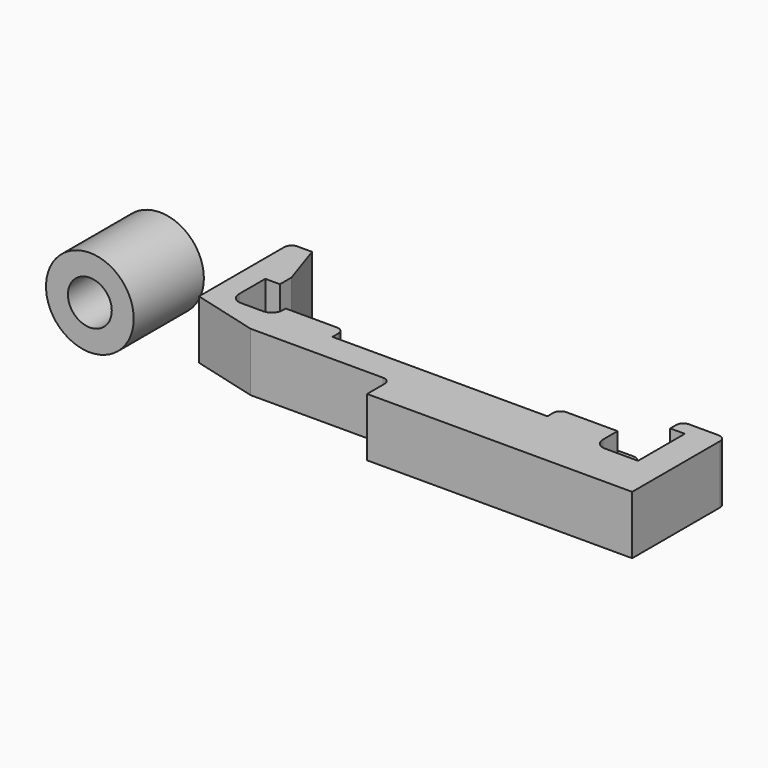
from build123d import *

# Parameters (mm, degrees)
SKETCH_R        = 3
SKETCH_R_2      = 1.5
PAD_DEPTH       = 6
PAD007_DEPTH    = 2
SKETCH009_W     = 14.7
SKETCH009_H     = 4
POCKET001_DEPTH = 1
SKETCH010_W     = 4
SKETCH010_H     = 1.5
PAD008_DEPTH    = 2
FILLET003_R     = 0.5


with BuildPart() as pcb_socket:
    # Sketch → Pad (new body)
    with BuildSketch(Plane.XZ):
        Circle(SKETCH_R)
        Circle(SKETCH_R_2, mode=Mode.SUBTRACT)
    extrude(amount=-PAD_DEPTH)


with BuildPart() as pcb_socket_1:
    # Body placement: moved
    add(pcb_socket.part.moved(Location((-11, 0, 0))))


with BuildPart() as pcb_clip:
    # Sketch008 → Pad007 (new body, symmetric)
    with BuildSketch(Plane.XY):
        with BuildLine():
            Line((-4.5, 1.205771), (-4.5, 9))
            Line((-3, 9), (-4.5, 9))
            Line((-2, 6), (-3, 9))
            Line((-2, 6), (-2, 5))
            Line((-2, 5), (-3, 5))
            Line((-3, 5), (-3, 2.75))
            ThreePointArc((-3, 2.75), (-2.78033, 2.21967), (-2.25, 2))
            Line((-2.25, 2), (-0.75, 2))
            ThreePointArc((-0.75, 2), (-0.21967, 2.21967), (0, 2.75))
            Line((0, 2.75), (0, 3))
            Line((22.7, 3), (0, 3))
            Line((22.7, 3), (22.7, 1.75))
            ThreePointArc((22.7, 1.75), (22.91967, 1.21967), (23.45, 1))
            Line((23.45, 1), (25.7, 1))
            Line((25.7, 5), (25.7, 1))
            Line((24.7, 5), (25.7, 5))
            Line((24.7, 6), (24.7, 5))
            Line((24.7, 6), (27.7, 6))
            Line((27.7, -2), (27.7, 6))
            Line((9.566667, -2), (27.7, -2))
            Line((9.566667, 0), (9.566667, -2))
            Line((9.566667, 0), (0, 0))
            Line((-4.5, 1.205771), (0, 0))
        make_face()
    extrude(amount=PAD007_DEPTH, both=True)

    # Sketch009 (on Face11 of Pad007) → Pocket001 (cut)
    with BuildSketch(Plane(origin=(0, 3, 0), x_dir=(-1, 0, 0), z_dir=(0, 1, 0))):
        with Locations((-11.35, 0)):
            Rectangle(SKETCH009_W, SKETCH009_H)
    extrude(amount=-POCKET001_DEPTH, mode=Mode.SUBTRACT)

    # Sketch010 (on DatumPlane) → Pad008 (join)
    with BuildSketch(Plane(origin=(0, 3, 0), x_dir=(-1, 0, 0), z_dir=(0, 1, 0))):
        with Locations((-20.7, -1.25)):
            Rectangle(SKETCH010_W, SKETCH010_H)
        with Locations((-2, -1.25)):
            Rectangle(SKETCH010_W, SKETCH010_H)
    extrude(amount=PAD008_DEPTH)

    # Fillet003
    fillet003_edges = [pcb_clip.edges().sort_by_distance(p)[0] for p in [
        (24.7, 6, 0),
        (4, 5, -1.25),
        (0, 5, -1.25),
        (22.7, 5, -1.25),
        (18.7, 5, -1.25),
        (4, 3, 0.75),
        (18.7, 3, 0.75),
        (27.7, 6, 0),
        (-4.5, 9, 0),
        (9.566667, 0, 0),
    ]]
    fillet(fillet003_edges, radius=FILLET003_R)


solid = Compound([pcb_socket_1.part, pcb_clip.part])
